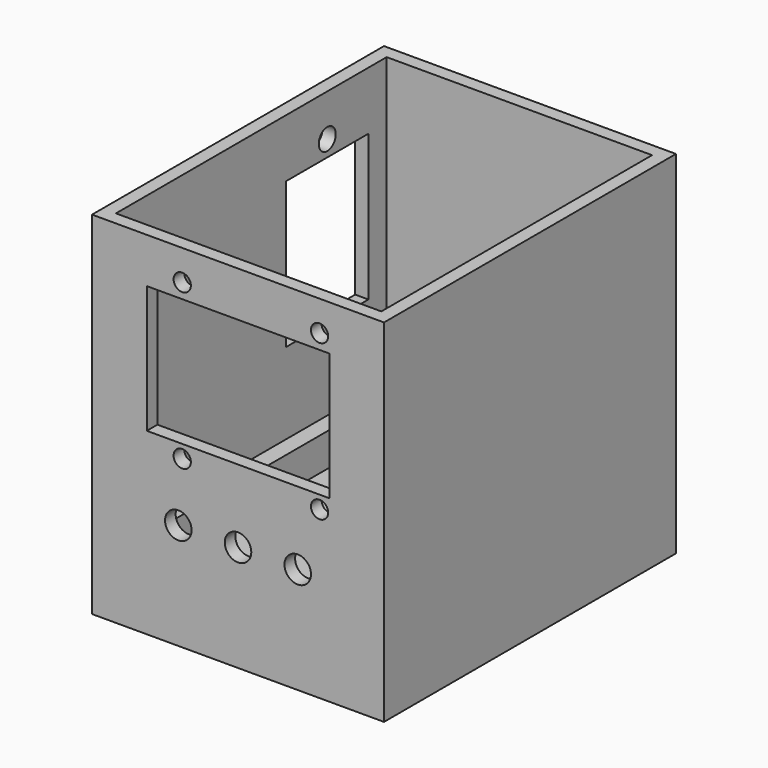
from build123d import *

# Parameters (mm, degrees)
SKETCH_W        = 40
SKETCH_H        = 51
PAD_DEPTH       = 7
SKETCH001_W     = 35
SKETCH001_H     = 46
POCKET_DEPTH    = 5
SKETCH002_W     = 44
SKETCH002_H     = 55
PAD001_DEPTH    = 3
SKETCH003_W     = 44
SKETCH003_H     = 55
SKETCH003_W_2   = 40
SKETCH003_H_2   = 51
PAD002_DEPTH    = 50
SKETCH004_R     = 1.3
SKETCH004_W     = 27.5
SKETCH004_H     = 19.2
POCKET001_DEPTH = 5
SKETCH005_R     = 2
POCKET002_DEPTH = 5
SKETCH006_R     = 1.6
SKETCH006_W     = 15.5
SKETCH006_H     = 22
POCKET003_DEPTH = 5


with BuildPart() as part:
    # Sketch → Pad (new body)
    with BuildSketch(Plane.XY):
        with Locations((20, 25.5)):
            Rectangle(SKETCH_W, SKETCH_H)
    extrude(amount=PAD_DEPTH)

    # Sketch001 → Pocket (cut)
    with BuildSketch(Plane.XY.offset(7)):
        with Locations((20, 25.5)):
            Rectangle(SKETCH001_W, SKETCH001_H)
    extrude(amount=-POCKET_DEPTH, mode=Mode.SUBTRACT)

    # Sketch002 → Pad001 (new body)
    with BuildSketch(Plane(origin=(0, 0, 0), x_dir=(1, 0, 0), z_dir=(0, 0, -1))):
        with Locations((20, -25.5)):
            Rectangle(SKETCH002_W, SKETCH002_H)
    extrude(amount=PAD001_DEPTH)

    # Sketch003 → Pad002 (new body)
    with BuildSketch(Plane.XY):
        with Locations((20, 25.5)):
            Rectangle(SKETCH003_W, SKETCH003_H)
        with Locations((20, 25.5)):
            Rectangle(SKETCH003_W_2, SKETCH003_H_2, mode=Mode.SUBTRACT)
    extrude(amount=PAD002_DEPTH)

    # Sketch004 → Pocket001 (cut)
    with BuildSketch(Plane.XZ.offset(2)):
        with Locations((11.591859, 22.0259)):
            Circle(SKETCH004_R)
        with Locations((32.291859, 22.0259)):
            Circle(SKETCH004_R)
        with Locations((11.591859, 45.4259)):
            Circle(SKETCH004_R)
        with Locations((32.291859, 45.4259)):
            Circle(SKETCH004_R)
        with Locations((20, 33.6)):
            Rectangle(SKETCH004_W, SKETCH004_H)
    extrude(amount=-POCKET001_DEPTH, mode=Mode.SUBTRACT)

    # Sketch005 → Pocket002 (cut)
    with BuildSketch(Plane.XZ.offset(2)):
        with Locations((11, 13)):
            Circle(SKETCH005_R)
        with Locations((20, 13)):
            Circle(SKETCH005_R)
        with Locations((29, 13)):
            Circle(SKETCH005_R)
    extrude(amount=-POCKET002_DEPTH, mode=Mode.SUBTRACT)

    # Sketch006 → Pocket003 (cut)
    with BuildSketch(Plane(origin=(-2, 0, 0), x_dir=(0, -1, 0), z_dir=(-1, 0, 0))):
        with Locations((-39.811333, 43.678651)):
            Circle(SKETCH006_R)
        with Locations((-39.817526, 30.238866)):
            Rectangle(SKETCH006_W, SKETCH006_H)
    extrude(amount=-POCKET003_DEPTH, mode=Mode.SUBTRACT)


solid = part.part
